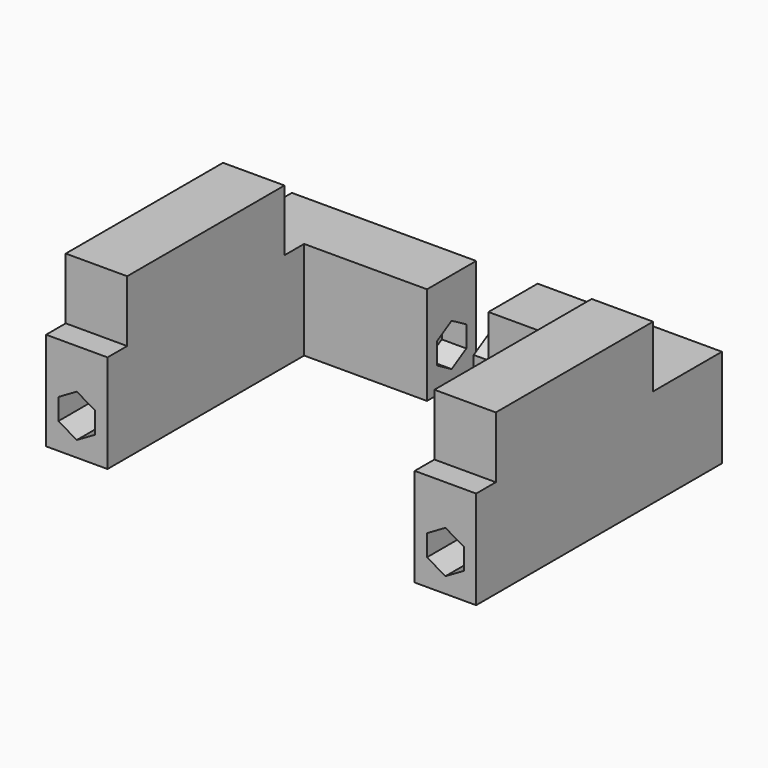
from build123d import *

# Parameters (mm, degrees)
F0_W      = 20
F0_H      = 8
F0_W_2    = 5
F1_DEPTH  = 5
F3_DEPTH  = 4
F4_DEPTH  = 10
F6_DEPTH  = 2
F8_DEPTH  = 2
F11_DEPTH = 4
F12_W     = 5
F12_H     = 18
F13_DEPTH = 5
F14_W     = 5
F14_H     = 18
F15_DEPTH = 5
F16_DEPTH = 2
F17_DEPTH = 2


with BuildPart() as f1:
    # F0 (on Right) → F1 (new body)
    with BuildSketch(Plane.YZ):
        with Locations((10, 4)):
            Rectangle(F0_W, F0_H)
        with Locations((22.5, 4)):
            Rectangle(F0_W_2, F0_H)
    extrude(amount=-F1_DEPTH)

    # F2 (on face) → F3 (cut)
    with BuildSketch(Plane.XZ):
        Polygon((-4, 3.8660254038), (-4, 2.1339745962), (-2.5, 1.2679491924), (-1, 2.1339745962), (-1, 3.8660254038), (-2.5, 4.7320508076), align=None)
    extrude(amount=-F3_DEPTH, mode=Mode.SUBTRACT)

    # F0 (on Right) → F4 (join)
    with BuildSketch(Plane.YZ):
        with Locations((22.5, 4)):
            Rectangle(F0_W_2, F0_H)
    extrude(amount=F4_DEPTH)

    # F5 (on face) → F6 (cut)
    with BuildSketch(Plane.YZ.offset(10)):
        Polygon((21, 3.8660254038), (21, 2.1339745962), (22.5, 1.2679491924), (24, 2.1339745962), (24, 3.8660254038), (22.5, 4.7320508076), align=None)
    extrude(amount=-F6_DEPTH, mode=Mode.SUBTRACT)

    # F7 (on face) → F8 (cut)
    with BuildSketch(Plane(origin=(0, 25, 0), x_dir=(-1, 0, 0), z_dir=(0, 1, 0))):
        Polygon((-5.5, 3.8660254038), (-5.5, 2.1339745962), (-4, 1.2679491924), (-2.5, 2.1339745962), (-2.5, 3.8660254038), (-4, 4.7320508076), align=None)
    extrude(amount=-F8_DEPTH, mode=Mode.SUBTRACT)


with BuildPart() as f10_1:
    # F10: instance of F1
    add(f1.part.mirror(Plane.YZ.offset(12.5)))

    # F11 (add): a face of the model
    f11_faces = [f10_1.faces().sort_by_distance(p)[0] for p in [
        (17, 22.5, 3),
    ]]
    extrude(f11_faces, amount=F11_DEPTH)

    # F14 (on face) → F15 (join)
    with BuildSketch(Plane.XY.offset(8)):
        with Locations((27.5, 11)):
            Rectangle(F14_W, F14_H)
    extrude(amount=F15_DEPTH)

    # F17 (cut): a face of the model
    f17_faces = [f10_1.faces().sort_by_distance(p)[0] for p in [
        (27.5, 20, 10.5),
    ]]
    extrude(f17_faces, amount=-F17_DEPTH, mode=Mode.SUBTRACT)


with BuildPart() as f1_1:
    add(f1.part)

    # F12 (on face) → F13 (join)
    with BuildSketch(Plane.XY.offset(8)):
        with Locations((-2.5, 11)):
            Rectangle(F12_W, F12_H)
    extrude(amount=F13_DEPTH)

    # F16 (cut): a face of the model
    f16_faces = [f1_1.faces().sort_by_distance(p)[0] for p in [
        (-2.5, 20, 10.5),
    ]]
    extrude(f16_faces, amount=-F16_DEPTH, mode=Mode.SUBTRACT)


solid = Compound([f10_1.part, f1_1.part])
